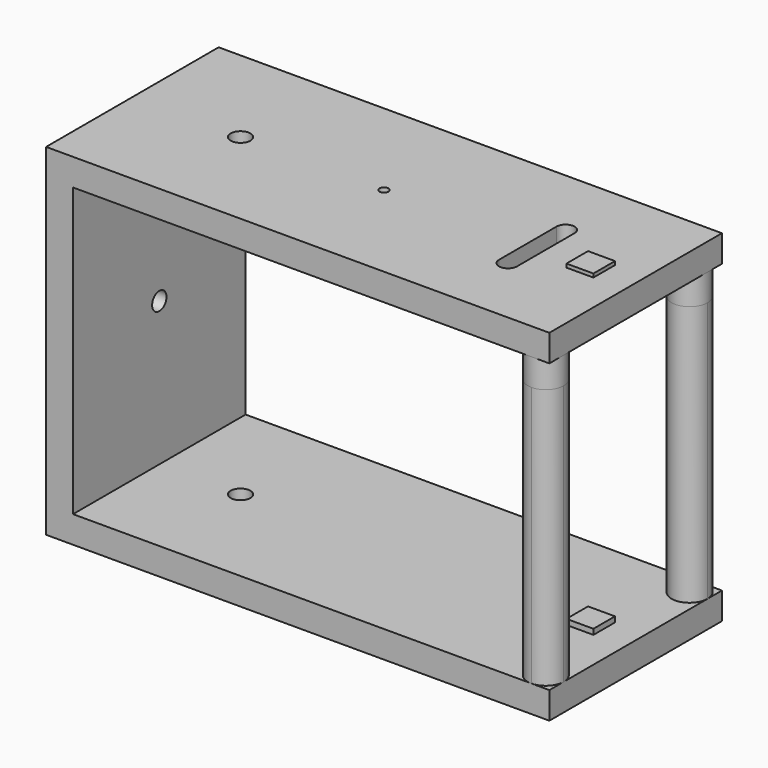
from build123d import *

# Parameters (mm, degrees)
F0_W      = 355.6
F0_H      = 152.4
F1_DEPTH  = 19.05
F2_W      = 19.05
F2_H      = 152.4
F3_DEPTH  = 222.25
F5_DEPTH  = 184.15
F6_W      = 152.4
F6_H      = 19.05
F7_DEPTH  = 336.55
F5_FACE_R = 12.7
F8_DEPTH  = 25.4
F9_R      = 6.35
F10_DEPTH = 25.4
F13_DEPTH = 19.05
F14_R     = 3.175
F16_DEPTH = 19.05
F17_W     = 19.05
F17_H     = 19.05
F18_DEPTH = 3.81
F19_W     = 19.05
F19_H     = 19.05
F20_DEPTH = 2.54
F22_D     = 13.97


with BuildPart() as f1:
    # F0 (on Top) → F1 (new body)
    with BuildSketch(Plane.XY):
        Rectangle(F0_W, F0_H)
    extrude(amount=F1_DEPTH)

    # F2 (on face) → F3 (join)
    with BuildSketch(Plane.XY.offset(19.05)):
        with Locations((-168.275, 0)):
            Rectangle(F2_W, F2_H)
    extrude(amount=F3_DEPTH)

    # F4 (on face) → F5 (join)
    with BuildSketch(Plane.XY.offset(19.05)):
        with BuildLine():
            ThreePointArc((165.1, 76.2), (156.119744, 54.519744), (177.8, 63.5))
            ThreePointArc((177.8, 63.5), (174.080256, 72.480256), (165.1, 76.2))
        make_face()
        with BuildLine():
            ThreePointArc((165.1, -76.2), (174.080256, -72.480256), (177.8, -63.5))
            ThreePointArc((177.8, -63.5), (156.119744, -54.519744), (165.1, -76.2))
        make_face()
    extrude(amount=F5_DEPTH)

    # F6 (on face) → F7 (join)
    with BuildSketch(Plane.YZ.offset(-158.75)):
        with Locations((0, 231.775)):
            Rectangle(F6_W, F6_H)
    extrude(amount=F7_DEPTH)

    # F5_face (on face) → F8 (join)
    with BuildSketch(Plane(origin=(165.1, 63.5, 203.2), x_dir=(1, 0, 0), z_dir=(0, 0, 1))):
        Circle(F5_FACE_R)
        with Locations((0, -127)):
            Circle(F5_FACE_R)
    extrude(amount=F8_DEPTH)

    # F9 (on face) → F10 (cut)
    with BuildSketch(Plane(origin=(-177.8, 0, 0), x_dir=(0, -1, 0), z_dir=(-1, 0, 0))):
        with Locations((0, 120.65)):
            Circle(F9_R)
    extrude(amount=-F10_DEPTH, mode=Mode.SUBTRACT)

    # F12 (on face) → F13 (cut)
    with BuildSketch(Plane.XY.offset(241.3)):
        with BuildLine():
            Line((114.3, -25.4), (114.3, 25.4))
            ThreePointArc((114.3, 25.4), (107.95, 31.75), (101.6, 25.4))
            Line((101.6, 25.4), (101.6, -25.4))
            ThreePointArc((101.6, -25.4), (107.95, -31.75), (114.3, -25.4))
        make_face()
    extrude(amount=-F13_DEPTH, mode=Mode.SUBTRACT)

    # F14 (on face) → F16 (cut)
    with BuildSketch(Plane.XY.offset(241.3)):
        Circle(F14_R)
    extrude(amount=-F16_DEPTH, mode=Mode.SUBTRACT)

    # F17 (on face) → F18 (join)
    with BuildSketch(Plane.XY.offset(19.05)):
        with Locations((146.05, 0)):
            Rectangle(F17_W, F17_H)
    extrude(amount=F18_DEPTH)

    # F19 (on face) → F20 (join)
    with BuildSketch(Plane.XY.offset(241.3)):
        with Locations((146.05, 0)):
            Rectangle(F19_W, F19_H)
    extrude(amount=F20_DEPTH)

    # F22 (through all)
    with Locations(Plane.XY.offset(241.3)):
        with Locations((-101.365335, 0)):
            Hole(F22_D / 2)


solid = f1.part
